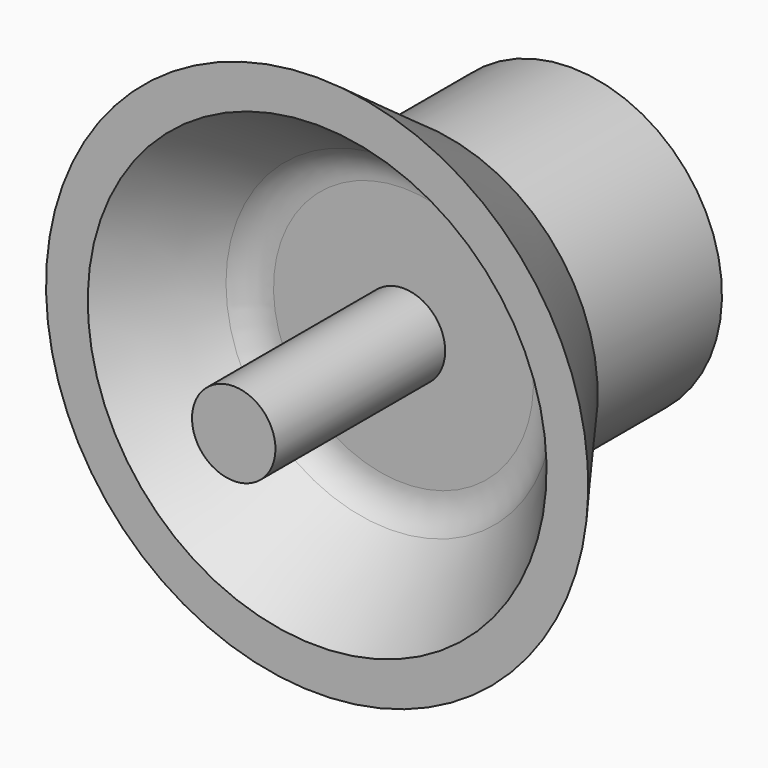
from build123d import *

# Parameters (mm, degrees)
F3_R = 2


with BuildPart() as f2:
    # F0 (on Right) → F2 (revolve)
    with BuildSketch(Plane.YZ):
        Polygon((-11, 0), (0, 0), (0, 5.6), (9.2, 5.6), (9.2, 7.25), (0, 7.25), (0, 8.65), (-6, 13), (-6, 11), (-0.827586, 7.25), (-0.827586, 2), (-11, 2), align=None)
    revolve(axis=Axis((0, -3.464686, 0), (0, -1, 0)))

    # F3
    f3_edges = [f2.edges().sort_by_distance(p)[0] for p in [
        (0, -0.827586, -7.25),
    ]]
    fillet(f3_edges, radius=F3_R)


with BuildPart() as f4_1:
    # F4: copy of F2
    add(f2.part)


solid = Compound([f2.part, f4_1.part])
